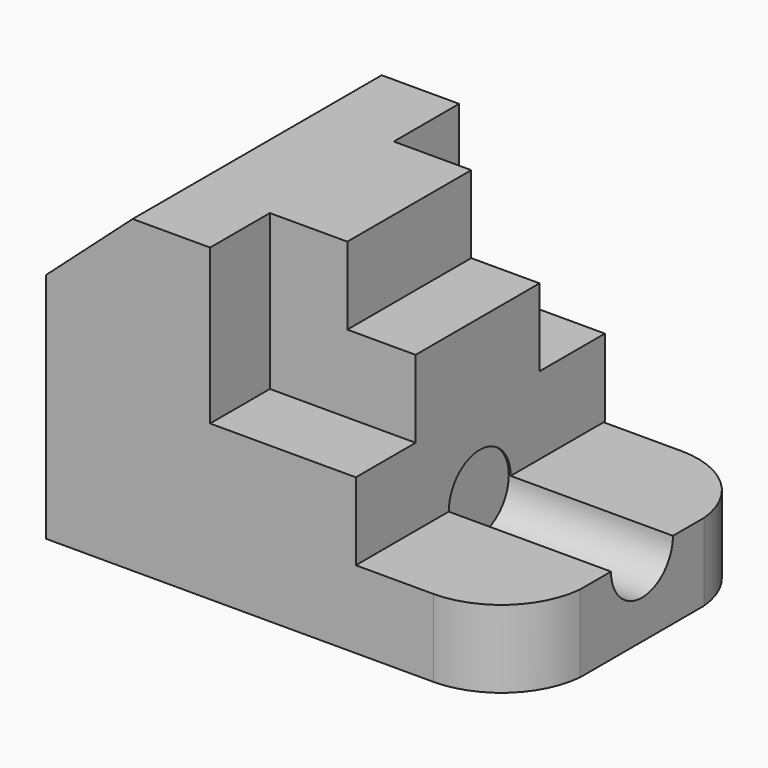
from build123d import *

# Parameters (mm, degrees)
F0_W      = 63.5
F0_H      = 50.8
F1_DEPTH  = 12.7
F3_DEPTH  = 12.7
F5_DEPTH  = 51.054
F6_W      = 12.7
F6_H      = 25.4
F7_DEPTH  = 25.4
F8_W      = 11.2009683429
F8_H      = 25.4
F9_DEPTH  = 12.7
F10_R     = 6.35
F11_DEPTH = 26.924


with BuildPart() as f1:
    # F0 (on Top) → F1 (new body)
    with BuildSketch(Plane.XY):
        with Locations((31.75, 25.4)):
            Rectangle(F0_W, F0_H)
    extrude(amount=F1_DEPTH)

    # F2 (on face) → F3 (join)
    with BuildSketch(Plane.XY.offset(12.7)):
        with BuildLine():
            Line((77.4110166286, 12.7), (77.4110166286, 38.1))
            ThreePointArc((77.4110166286, 38.1), (72.918152468, 47.1474711632), (63.5, 50.8))
            Line((63.5, 50.8), (63.5, 0))
            ThreePointArc((63.5, 0), (72.918152468, 3.6525288368), (77.4110166286, 12.7))
        make_face()
    extrude(amount=-F3_DEPTH)

    # F4 (on face) → F5 (join)
    with BuildSketch(Plane.XZ):
        Polygon((0, 38.1), (0, 12.7), (50.8, 12.7), (50.8, 25.4), (26.8990316571, 25.4), (26.8990316571, 50.8), (14.1990316571, 50.8), align=None)
    extrude(amount=-F5_DEPTH)

    # F6 (on face) → F7 (join)
    with BuildSketch(Plane.XY.offset(25.4)):
        with Locations((33.2490316571, 24.9606130317)):
            Rectangle(F6_W, F6_H)
    extrude(amount=F7_DEPTH)

    # F8 (on face) → F9 (join)
    with BuildSketch(Plane.XY.offset(25.4)):
        with Locations((45.1995158286, 24.9606130317)):
            Rectangle(F8_W, F8_H)
    extrude(amount=F9_DEPTH)

    # F10 (on face) → F11 (cut)
    with BuildSketch(Plane.YZ.offset(77.4110166286)):
        with Locations((25.4, 12.7)):
            Circle(F10_R)
    extrude(amount=-F11_DEPTH, mode=Mode.SUBTRACT)


solid = f1.part
